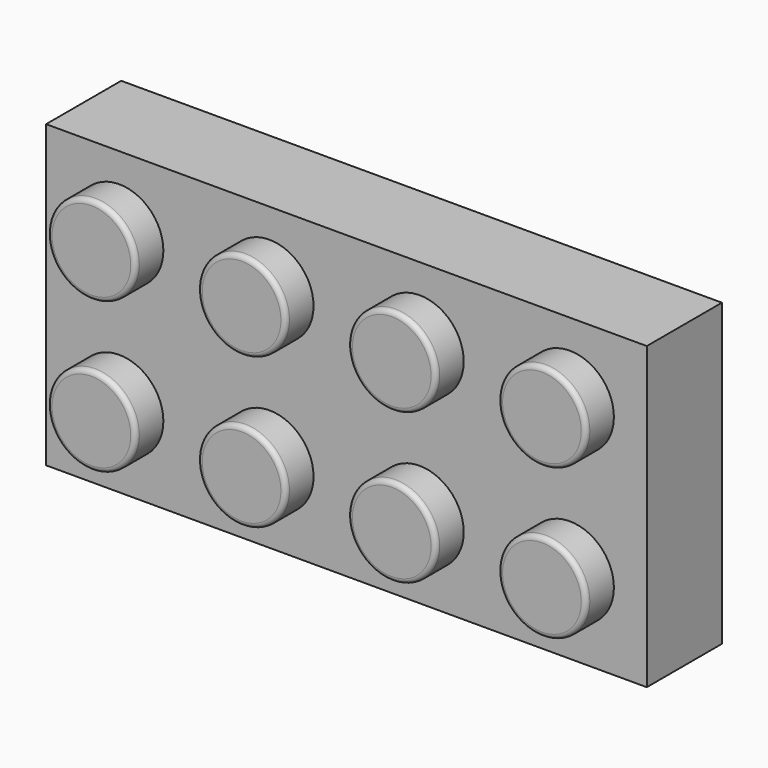
from build123d import *

# Parameters (mm, degrees)
F0_W     = 32.004
F0_H     = 16.002
F1_DEPTH = 5.0038
F2_R     = 2.3495
F3_DEPTH = 1.8542
F4_R     = 0.254


with BuildPart() as f1:
    # F0 (on Front) → F1 (new body)
    with BuildSketch(Plane.XZ):
        with Locations((-16.002, 8.001)):
            Rectangle(F0_W, F0_H)
    extrude(amount=F1_DEPTH)

    # F2 (on face) → F3 (join)
    with BuildSketch(Plane.XZ.offset(5.0038)):
        with Locations((-28.1051, 12.1031)):
            Circle(F2_R)
        with Locations((-20.1041, 12.1031)):
            Circle(F2_R)
        with Locations((-12.1031, 12.1031)):
            Circle(F2_R)
        with Locations((-4.1021, 12.1031)):
            Circle(F2_R)
        with Locations((-28.1051, 4.1021)):
            Circle(F2_R)
        with Locations((-20.1041, 4.1021)):
            Circle(F2_R)
        with Locations((-12.1031, 4.1021)):
            Circle(F2_R)
        with Locations((-4.1021, 4.1021)):
            Circle(F2_R)
    extrude(amount=F3_DEPTH)

    # F4
    f4_edges = [f1.edges().sort_by_distance(p)[0] for p in [
        (-30.4546, -6.858, 12.1031),
        (-22.4536, -6.858, 12.1031),
        (-14.4526, -6.858, 12.1031),
        (-6.4516, -6.858, 12.1031),
        (-30.4546, -6.858, 4.1021),
        (-22.4536, -6.858, 4.1021),
        (-14.4526, -6.858, 4.1021),
        (-6.4516, -6.858, 4.1021),
    ]]
    fillet(f4_edges, radius=F4_R)


solid = f1.part
